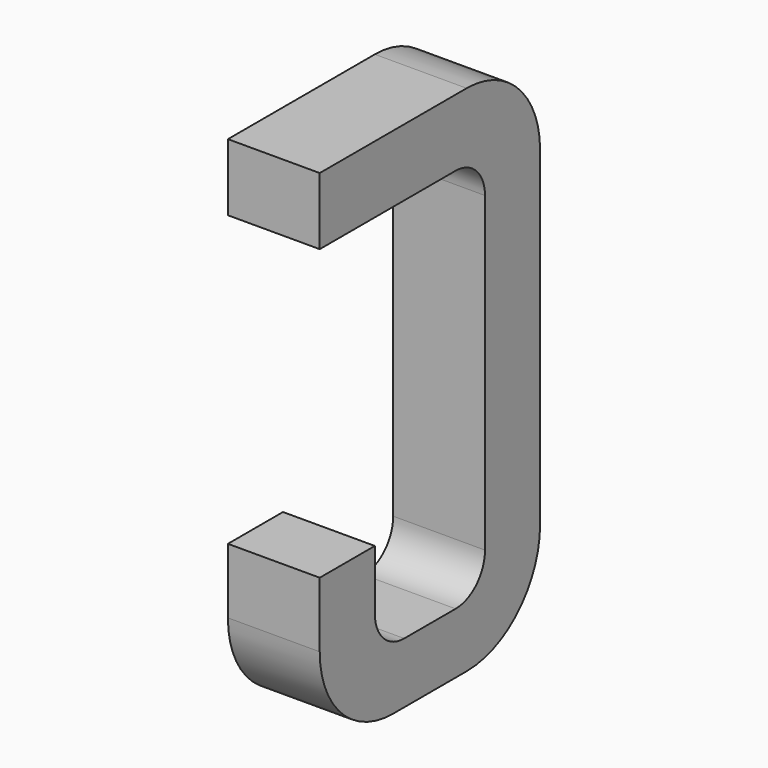
from build123d import *

# Parameters (mm, degrees)
BOX099_W     = 0.5
BOX099_H     = 1.5
BOX099_DEPTH = 2.795
FILLET226_R  = 0.5
FILLET237_R  = 0.5
FILLET236_R  = 0.5
BOX098_W     = 0.75
BOX098_H     = 2.1
BOX098_DEPTH = 1
FILLET235_R  = 0.2
FILLET231_R  = 0.2
FILLET234_R  = 0.2
FILLET232_R  = 0.2
BOX102_W     = 1
BOX102_H     = 1.575
BOX102_DEPTH = 3


with BuildPart() as part:
    # Box099 → Box099 (join)
    with BuildSketch(Plane(origin=(-0.25, 11.125, 0), x_dir=(1, 0, 0), z_dir=(0, 0, 1))):
        with Locations((0.25, 0.75)):
            Rectangle(BOX099_W, BOX099_H)
    extrude(amount=BOX099_DEPTH)

    # Fillet226
    fillet226_edges = [part.edges().sort_by_distance(p)[0] for p in [
        (0, 12.625, 0),
    ]]
    fillet(fillet226_edges, radius=FILLET226_R)

    # Fillet237
    fillet237_edges = [part.edges().sort_by_distance(p)[0] for p in [
        (0, 12.625, 2.795),
    ]]
    fillet(fillet237_edges, radius=FILLET237_R)

    # Fillet236
    fillet236_edges = [part.edges().sort_by_distance(p)[0] for p in [
        (0, 11.125, 0),
    ]]
    fillet(fillet236_edges, radius=FILLET236_R)

    # Box098 → Box098 (cut)
    with BuildSketch(Plane(origin=(-0.5, 11.5, 0.33), x_dir=(0, 1, 0), z_dir=(1, 0, 0))):
        with Locations((0.375, 1.05)):
            Rectangle(BOX098_W, BOX098_H)
    extrude(amount=BOX098_DEPTH, mode=Mode.SUBTRACT)

    # Fillet235
    fillet235_edges = [part.edges().sort_by_distance(p)[0] for p in [
        (0, 11.5, 0.33),
    ]]
    fillet(fillet235_edges, radius=FILLET235_R)

    # Fillet231
    fillet231_edges = [part.edges().sort_by_distance(p)[0] for p in [
        (0, 12.25, 0.33),
    ]]
    fillet(fillet231_edges, radius=FILLET231_R)

    # Fillet234
    fillet234_edges = [part.edges().sort_by_distance(p)[0] for p in [
        (0, 11.5, 2.43),
    ]]
    fillet(fillet234_edges, radius=FILLET234_R)

    # Fillet232
    fillet232_edges = [part.edges().sort_by_distance(p)[0] for p in [
        (0, 12.25, 2.43),
    ]]
    fillet(fillet232_edges, radius=FILLET232_R)

    # Box102 → Box102 (cut)
    with BuildSketch(Plane(origin=(-1, 11, 0.855), x_dir=(0, 1, 0), z_dir=(1, 0, 0))):
        with Locations((0.5, 0.7875)):
            Rectangle(BOX102_W, BOX102_H)
    extrude(amount=BOX102_DEPTH, mode=Mode.SUBTRACT)


with BuildPart() as part_1:
    # Body034 placement: moved
    add(part.part.moved(Location((10.16, 0, 0))))


solid = part_1.part
